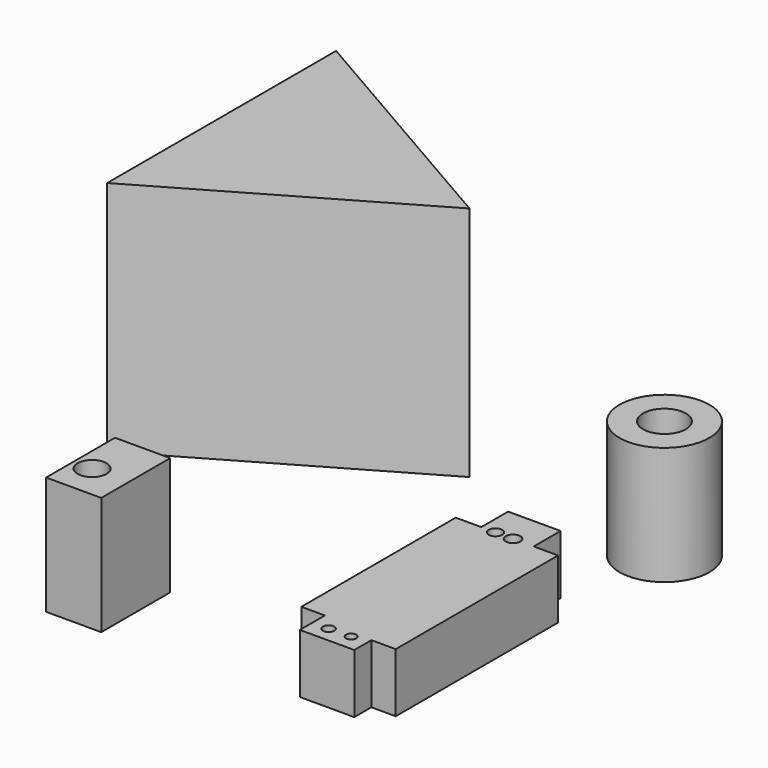
from build123d import *

# Parameters (mm, degrees)
F0_R     = 1.228855
F0_R_2   = 1.093859
F0_R_3   = 1.456344
F0_R_4   = 1.572638
F1_DEPTH = 12.7
F2_W     = 11.854053
F2_H     = 18.508531
F2_R     = 3.114902
F3_DEPTH = 25.4
F4_R     = 9.65917
F4_R_2   = 4.605393
F5_DEPTH = 25.4
F7_DEPTH = 50.8


with BuildPart() as f1:
    # F0 (on Top) → F1 (new body)
    with BuildSketch(Plane.XY):
        Polygon((8.214151, 25.427094), (-3.051329, 25.427094), (-3.051329, 18.212683), (-8.53976, 18.212683), (-8.53976, -23.258118), (-3.477043, -23.258118), (-3.477043, -29.973447), (8.214151, -29.973447), (8.214151, -25.386928), (13.441963, -25.386928), (13.441963, 18.212683), (8.214151, 18.212683), align=None)
        with Locations((0, -26.615783)):
            Circle(F0_R, mode=Mode.SUBTRACT)
        with Locations((4.736043, -26.480787)):
            Circle(F0_R_2, mode=Mode.SUBTRACT)
        with Locations((0, 18.212683)):
            Circle(F0_R_3, mode=Mode.SUBTRACT)
        with Locations((3.774539, 18.212683)):
            Circle(F0_R_4, mode=Mode.SUBTRACT)
    extrude(amount=F1_DEPTH)


with BuildPart() as f3:
    # F2 (on Top) → F3 (new body)
    with BuildSketch(Plane.XY):
        with Locations((-50.149727, -23.135323)):
            Rectangle(F2_W, F2_H)
        with Locations((-52.091528, -25.013741)):
            Circle(F2_R, mode=Mode.SUBTRACT)
    extrude(amount=F3_DEPTH)


with BuildPart() as f5:
    # F4 (on Top) → F5 (new body)
    with BuildSketch(Plane.XY):
        with Locations((12.172529, 48.373301)):
            Circle(F4_R)
        with Locations((12.172529, 48.373301)):
            Circle(F4_R_2, mode=Mode.SUBTRACT)
    extrude(amount=F5_DEPTH)


with BuildPart() as f7:
    # F6 (on Top) → F7 (new body)
    with BuildSketch(Plane.XY):
        Polygon((-84.445715, 80.966448), (-84.445715, 19.470016), (-31.188242, 50.218232), align=None)
    extrude(amount=F7_DEPTH)


solid = Compound([f1.part, f3.part, f5.part, f7.part])
